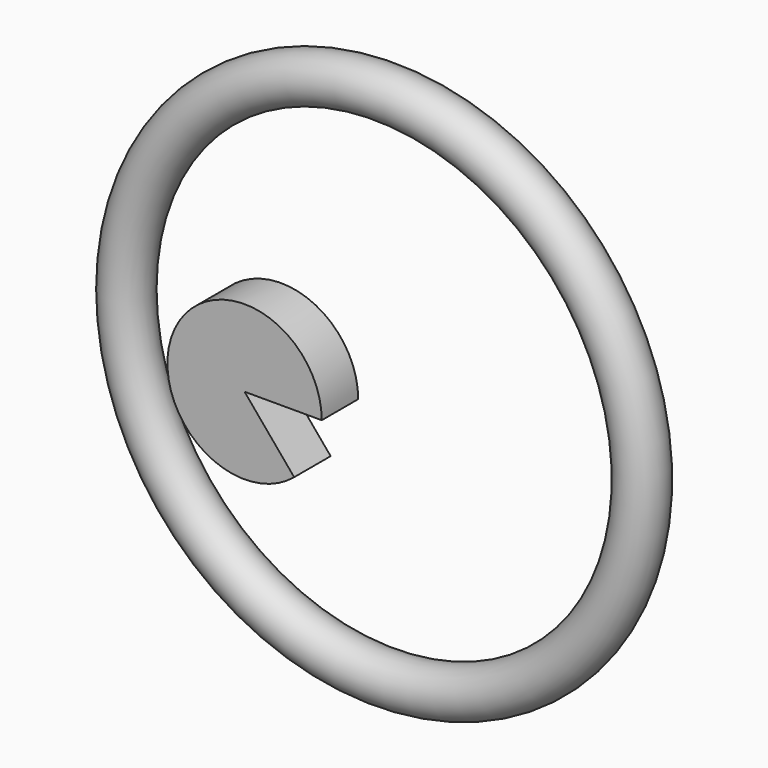
from build123d import *

# Parameters (mm, degrees)
F0_W     = 36.537992
F0_H     = 21.590633
F1_ANGLE = 310
F0_R     = 11.179722


with BuildPart() as f1:
    # F0 (on Top) → F1 (revolve)
    with BuildSketch(Plane.XY):
        with Locations((41.520446, 26.365479)):
            Rectangle(F0_W, F0_H)
    revolve(axis=Axis((23.25145, 26.365479, 0), (0, -1, 0)), revolution_arc=F1_ANGLE)


with BuildPart() as f2:
    # F0 (on Top) → F2 (revolve)
    with BuildSketch(Plane.XY):
        with Locations((-62.280677, 52.52336)):
            Circle(F0_R)
    revolve(axis=Axis((59.789442, 26.365479, 0), (0, -1, 0)))


solid = Compound([f1.part, f2.part])
